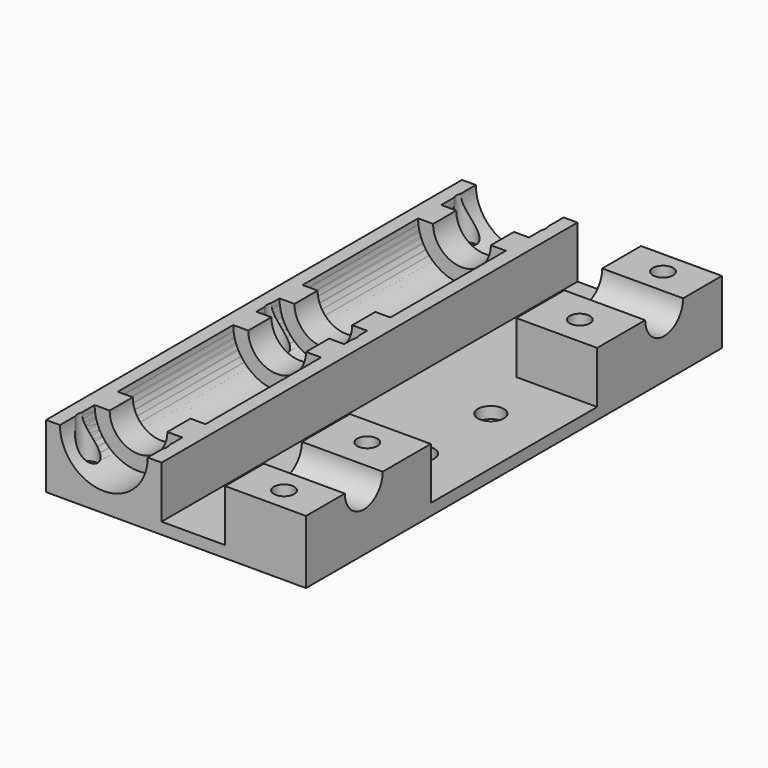
from build123d import *

# Parameters (mm, degrees)
SKETCH_W        = 45
SKETCH_H        = 90
PAD_DEPTH       = 11
SKETCH001_R     = 7.6
POCKET_DEPTH    = 90.001
SKETCH002_R     = 1.75
POCKET001_DEPTH = 11.001
POCKET002_DEPTH = 9
SKETCH004_R     = 2.25
POCKET003_DEPTH = 11.001
SKETCH008_R     = 4.1
POCKET005_DEPTH = 20
SKETCH022_R     = 2.9
POCKET007_DEPTH = 3.5
POCKET008_DEPTH = 5
PAD002_DEPTH    = 5
PAD003_DEPTH    = 5
PAD004_DEPTH    = 5
PAD001_DEPTH    = 5


with BuildPart() as pocket007:
    # Sketch → Pad (new body)
    with BuildSketch(Plane.XY):
        with Locations((12.5, 0)):
            Rectangle(SKETCH_W, SKETCH_H)
    extrude(amount=PAD_DEPTH)

    # Sketch001 → Pocket (cut, through all)
    with BuildSketch(Plane.XZ.offset(45)):
        with Locations((0, 11)):
            Circle(SKETCH001_R)
    extrude(amount=-POCKET_DEPTH, mode=Mode.SUBTRACT)

    # Sketch002 → Pocket001 (cut, through all)
    with BuildSketch(Plane.XY.offset(11)):
        with Locations((-6, 41)):
            Circle(SKETCH002_R)
        with Locations((-6, -41)):
            Circle(SKETCH002_R)
        with Locations((6, 41)):
            Circle(SKETCH002_R)
        with Locations((6, -41)):
            Circle(SKETCH002_R)
        with Locations((6, 0)):
            Circle(SKETCH002_R)
        with Locations((-6, 0)):
            Circle(SKETCH002_R)
        with Locations((28, 41)):
            Circle(SKETCH002_R)
        with Locations((28, 23)):
            Circle(SKETCH002_R)
        with Locations((28, -23)):
            Circle(SKETCH002_R)
        with Locations((28, -41)):
            Circle(SKETCH002_R)
    extrude(amount=-POCKET001_DEPTH, mode=Mode.SUBTRACT)

    # Sketch003 → Pocket002 (cut)
    with BuildSketch(Plane.XY.offset(11)):
        Polygon((10, 50), (10, -50), (21, -50), (21, -18), (41, -18), (41, 18), (21, 18), (21, 50), align=None)
    extrude(amount=-POCKET002_DEPTH, mode=Mode.SUBTRACT)

    # Sketch004 → Pocket003 (cut, through all)
    with BuildSketch(Plane(origin=(0, 0, 0), x_dir=(1, 0, 0), z_dir=(0, 0, -1))):
        with Locations((25, 7.5)):
            Circle(SKETCH004_R)
        with Locations((25, -7.5)):
            Circle(SKETCH004_R)
    extrude(amount=-POCKET003_DEPTH, mode=Mode.SUBTRACT)

    # Sketch008 → Pocket005 (cut)
    with BuildSketch(Plane.YZ.offset(35)):
        with Locations((-32.5, 11)):
            Circle(SKETCH008_R)
        with Locations((32.5, 11)):
            Circle(SKETCH008_R)
    extrude(amount=-POCKET005_DEPTH, mode=Mode.SUBTRACT)

    # Sketch022 → Pocket007 (cut)
    with BuildSketch(Plane(origin=(0, 0, 0), x_dir=(1, 0, 0), z_dir=(0, 0, -1))):
        with Locations((28, -41)):
            Circle(SKETCH022_R)
        with Locations((6, -41)):
            Circle(SKETCH022_R)
        with Locations((-6, -41)):
            Circle(SKETCH022_R)
        with Locations((6, 41)):
            Circle(SKETCH022_R)
        with Locations((28, 41)):
            Circle(SKETCH022_R)
        with Locations((-6, 0)):
            Circle(SKETCH022_R)
        with Locations((-6, 41)):
            Circle(SKETCH022_R)
        with Locations((6, 0)):
            Circle(SKETCH022_R)
        with Locations((28, 23)):
            Circle(SKETCH022_R)
        with Locations((28, -23)):
            Circle(SKETCH022_R)
    extrude(amount=-POCKET007_DEPTH, mode=Mode.SUBTRACT)


with BuildPart() as pocket008:
    # Pocket008 base: copy of Pocket007
    add(pocket007.part)

    # Sketch023 → Pocket008 (cut)
    with BuildSketch(Plane.XY.offset(2)):
        Polygon((40.573685, 18), (32, 3.425), (32, -3.425), (40.573685, -18), (51.573685, -18), (51.573685, 18), align=None)
    extrude(amount=-POCKET008_DEPTH, mode=Mode.SUBTRACT)


with BuildPart() as pad002:
    # Sketch019 → Pad002 (new body)
    with BuildSketch(Plane.XZ.offset(7.5)):
        with BuildLine():
            ThreePointArc((-7.6, 11), (0, 3.4), (7.6, 11))
            Line((7.6, 11), (5, 11))
            ThreePointArc((-5, 11), (0, 6), (5, 11))
            Line((-7.6, 11), (-5, 11))
        make_face()
    extrude(amount=-PAD002_DEPTH)


with BuildPart() as pad003:
    # Sketch020 → Pad003 (new body)
    with BuildSketch(Plane.XZ.offset(-32.5)):
        with BuildLine():
            ThreePointArc((-7.6, 11), (0, 3.4), (7.6, 11))
            Line((7.6, 11), (5, 11))
            ThreePointArc((-5, 11), (0, 6), (5, 11))
            Line((-7.6, 11), (-5, 11))
        make_face()
    extrude(amount=-PAD003_DEPTH)


with BuildPart() as pad004:
    # Sketch021 → Pad004 (new body)
    with BuildSketch(Plane.XZ.offset(32.5)):
        with BuildLine():
            ThreePointArc((-7.6, 11), (0, 3.4), (7.6, 11))
            Line((7.6, 11), (5, 11))
            ThreePointArc((-5, 11), (0, 6), (5, 11))
            Line((-7.6, 11), (-5, 11))
        make_face()
    extrude(amount=PAD004_DEPTH)


with BuildPart() as pad001:
    # Sketch018 → Pad001 (new body)
    with BuildSketch(Plane.XZ.offset(-7.5)):
        with BuildLine():
            ThreePointArc((-7.6, 11), (0, 3.4), (7.6, 11))
            Line((7.6, 11), (5, 11))
            ThreePointArc((-5, 11), (0, 6), (5, 11))
            Line((-7.6, 11), (-5, 11))
        make_face()
    extrude(amount=PAD001_DEPTH)


with BuildPart() as fusion:
    # Fusion base: copy of Pocket007
    add(pocket007.part)

    # Fusion: union Pad002, Pad003, Pad004, Pad001
    add(pad002.part)
    add(pad003.part)
    add(pad004.part)
    add(pad001.part)


solid = Compound([pocket008.part, fusion.part])
